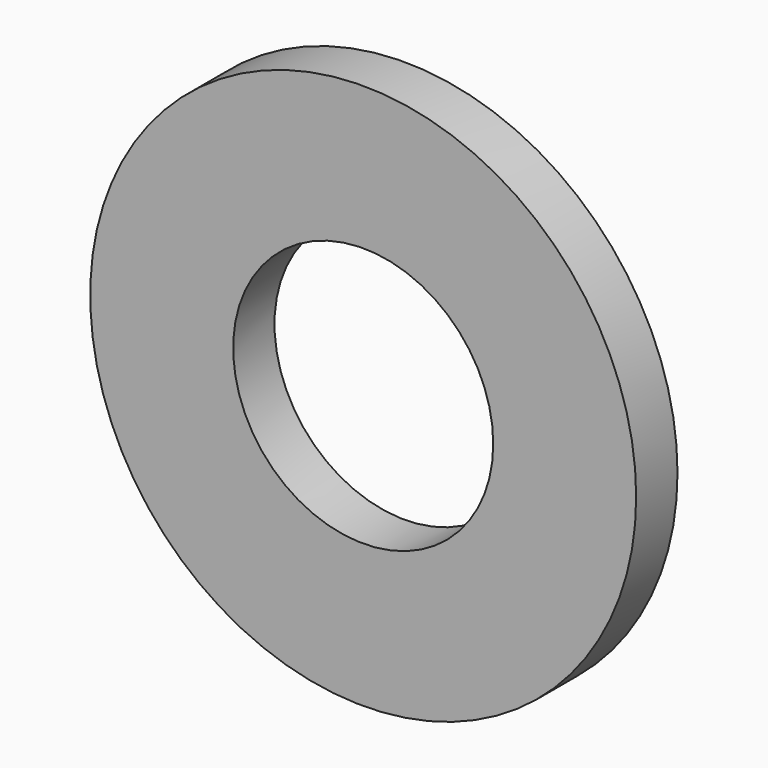
from build123d import *

# Parameters (mm, degrees)
F0_R   = 4.0259
F0_R_2 = 1.9177


with BuildPart() as f2:
    # F2: sweep along a path in F1
    with BuildLine(Plane.YZ) as f2_path:
        Line((0, 0), (0.762, 0))
    # F0 (on Front) → F2 (sweep)
    with BuildSketch(Plane.XZ):
        Circle(F0_R)
        Circle(F0_R_2, mode=Mode.SUBTRACT)
    sweep(path=f2_path.line)


solid = f2.part
